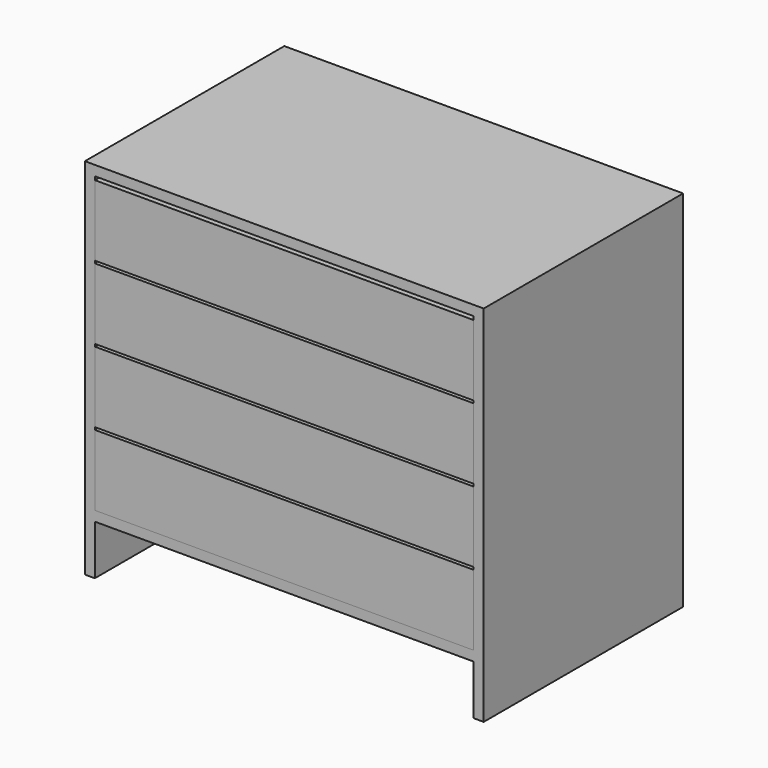
from build123d import *

# Parameters (mm, degrees)
F0_W     = 760
F0_H     = 20
F1_DEPTH = 500
F2_W     = 760
F2_H     = 142
F3_DEPTH = 480
F4_T     = -20
F4_2_T   = -20
F4_3_T   = -20
F4_4_T   = -20


with BuildPart() as f1:
    # F0 (on Front) → F1 (new body)
    with BuildSketch(Plane.XZ):
        Polygon((-301.7233454305, 352.6241288904), (-301.7233454305, 332.6241288904), (-281.7233454305, 332.6241288904), (478.2766545695, 332.6241288904), (498.2766545695, 332.6241288904), (498.2766545695, 352.6241288904), align=None)
        Polygon((-281.7233454305, 332.6241288904), (-301.7233454305, 332.6241288904), (-301.7233454305, -377.3758711096), (-281.7233454305, -377.3758711096), (-281.7233454305, -277.3758711096), (-281.7233454305, -257.3758711096), align=None)
        with Locations((98.2766545695, -267.3758711096)):
            Rectangle(F0_W, F0_H)
        Polygon((498.2766545695, 332.6241288904), (478.2766545695, 332.6241288904), (478.2766545695, -257.3758711096), (478.2766545695, -277.3758711096), (478.2766545695, -377.3758711096), (498.2766545695, -377.3758711096), align=None)
    extrude(amount=F1_DEPTH)


with BuildPart() as f3:
    # F2 (on face) → F3 (new body)
    with BuildSketch(Plane.XZ.offset(500)):
        with Locations((98.2766545695, -186.3758711096)):
            Rectangle(F2_W, F2_H)
    extrude(amount=-F3_DEPTH)

    # F4#4
    f4_4_openings = [f3.faces().sort_by_distance(p)[0] for p in [
        (98.276655, -260, -115.375871),
    ]]
    offset(amount=F4_4_T, openings=f4_4_openings)


with BuildPart() as f3b:
    # F2 (on face) → F3, piece 2 (new body)
    with BuildSketch(Plane.XZ.offset(500)):
        with Locations((98.2766545695, -39.3758711096)):
            Rectangle(F2_W, F2_H)
    extrude(amount=-F3_DEPTH)

    # F4#3
    f4_3_openings = [f3b.faces().sort_by_distance(p)[0] for p in [
        (98.276655, -260, 31.624129),
    ]]
    offset(amount=F4_3_T, openings=f4_3_openings)


with BuildPart() as f3c:
    # F2 (on face) → F3, piece 3 (new body)
    with BuildSketch(Plane.XZ.offset(500)):
        with Locations((98.2766545695, 107.6241288904)):
            Rectangle(F2_W, F2_H)
    extrude(amount=-F3_DEPTH)

    # F4#2
    f4_2_openings = [f3c.faces().sort_by_distance(p)[0] for p in [
        (98.276655, -260, 178.624129),
    ]]
    offset(amount=F4_2_T, openings=f4_2_openings)


with BuildPart() as f3d:
    # F2 (on face) → F3, piece 4 (new body)
    with BuildSketch(Plane.XZ.offset(500)):
        with Locations((98.2766545695, 254.6241334677)):
            Rectangle(F2_W, F2_H)
    extrude(amount=-F3_DEPTH)

    # F4
    f4_openings = [f3d.faces().sort_by_distance(p)[0] for p in [
        (98.276655, -260, 325.624133),
    ]]
    offset(amount=F4_T, openings=f4_openings)


solid = Compound([f1.part, f3.part, f3b.part, f3c.part, f3d.part])
